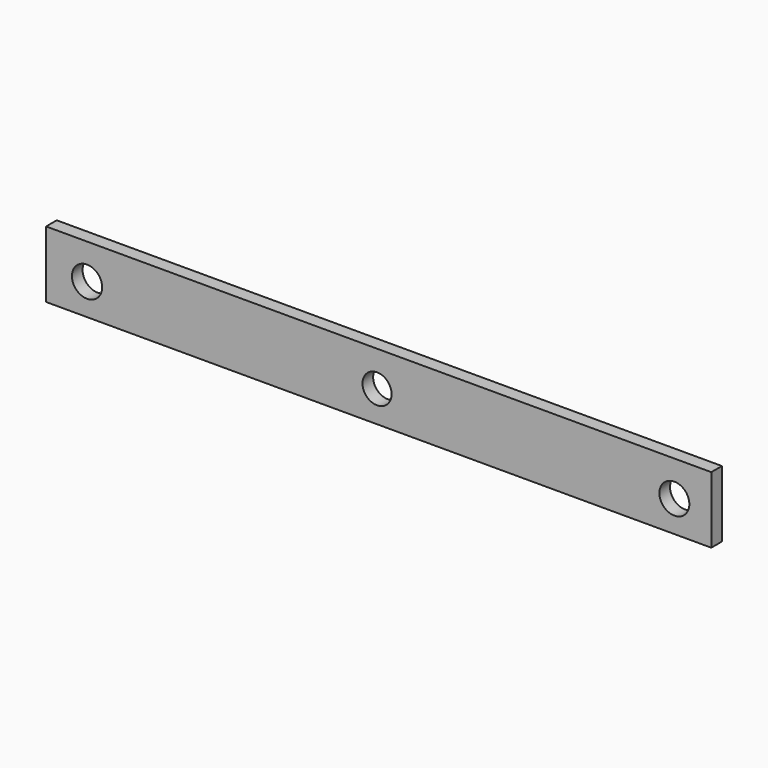
from build123d import *

# Parameters (mm, degrees)
F0_W     = 254
F0_H     = 25.4
F1_DEPTH = 2.54
F2_R     = 5.765709
F2_R_2   = 5.719151
F3_DEPTH = 38.1
F4_R     = 5.551244
F5_DEPTH = 25.4


with BuildPart() as f1:
    # F0 (on Front) → F1 (new body, symmetric)
    with BuildSketch(Plane.XZ):
        with Locations((0.620032, 0.783191)):
            Rectangle(F0_W, F0_H)
    extrude(amount=F1_DEPTH, both=True)

    # F2 (on face) → F3 (cut)
    with BuildSketch(Plane.XZ.offset(2.54)):
        with Locations((-110.739939, 0)):
            Circle(F2_R)
        with Locations((113.527127, 0)):
            Circle(F2_R_2)
    extrude(amount=-F3_DEPTH, mode=Mode.SUBTRACT)

    # F4 (on face) → F5 (cut)
    with BuildSketch(Plane.XZ.offset(2.54)):
        Circle(F4_R)
    extrude(amount=-F5_DEPTH, mode=Mode.SUBTRACT)


solid = f1.part
